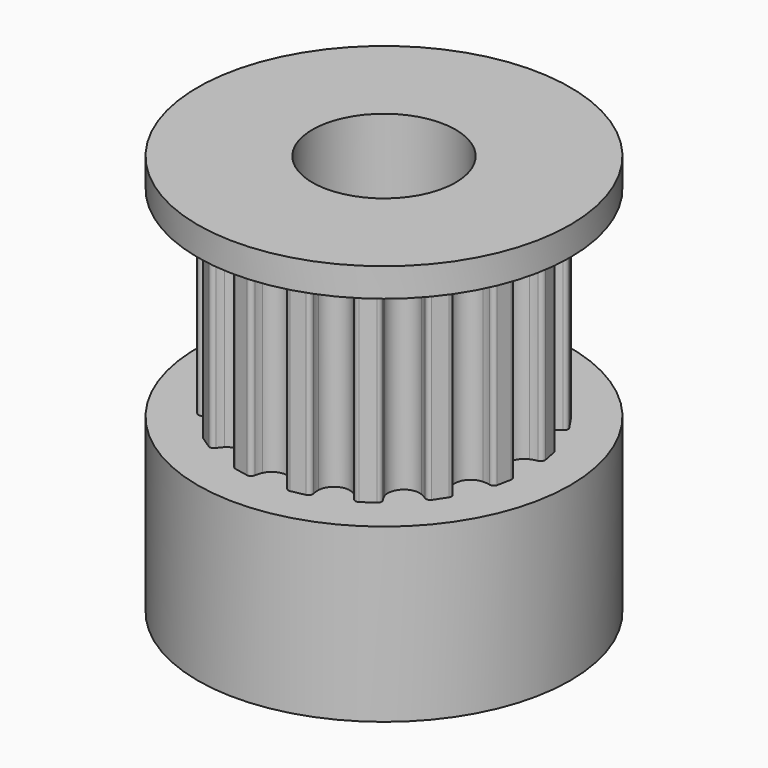
from build123d import *

# Parameters (mm, degrees)
F0_R     = 6.5
F0_R_2   = 2.5
F1_DEPTH = 6
F2_DEPTH = 7
F3_START = 7
F3_DEPTH = 1
F4_R     = 1.25
F5_DEPTH = 25


with BuildPart() as f1:
    # F0 (on Top) → F1 (new body)
    with BuildSketch(Plane.XY):
        Circle(F0_R)
        with BuildLine():
            ThreePointArc((4.9090131312, 0.5782954576), (4.7899259351, 0.5504631071), (4.6751267224, 0.5083022152))
            ThreePointArc((4.6751267224, 0.5083022152), (4.3429581789, 0), (4.6751267224, -0.5083022152))
            ThreePointArc((4.6751267224, -0.5083022152), (4.7899259351, -0.5504631071), (4.9090131312, -0.5782954576))
            ThreePointArc((4.9090131312, -0.5782954576), (5.0090368594, -0.6367571879), (5.0375745642, -0.7490430709))
            Line((5.0375745642, -0.7490430709), (4.9407584068, -1.2357707629))
            ThreePointArc((4.9407584068, -1.2357707629), (4.8714230583, -1.3285884851), (4.7566408474, -1.3443226576))
            ThreePointArc((4.7566408474, -1.3443226576), (4.6359676449, -1.3244636995), (4.5137727272, -1.3194835279))
            ThreePointArc((4.5137727272, -1.3194835279), (4.0123701721, -1.6619781425), (4.1247350544, -2.2587035539))
            ThreePointArc((4.1247350544, -2.2587035539), (4.2146614224, -2.3415868957), (4.3140326661, -2.4128733316))
            ThreePointArc((4.3140326661, -2.4128733316), (4.3840702057, -2.5051623513), (4.36746566, -2.6198218872))
            Line((4.36746566, -2.6198218872), (4.09175657, -3.0324497003))
            ThreePointArc((4.09175657, -3.0324497003), (3.9921792561, -3.0916686049), (3.8801131136, -3.0622798344))
            ThreePointArc((3.8801131136, -3.0622798344), (3.7762253059, -2.9977529142), (3.6652377516, -2.9463898651))
            ThreePointArc((3.6652377516, -2.9463898651), (3.0709351787, -3.0709351787), (2.9463898651, -3.6652377516))
            ThreePointArc((2.9463898651, -3.6652377516), (2.9977529142, -3.7762253059), (3.0622798344, -3.8801131136))
            ThreePointArc((3.0622798344, -3.8801131136), (3.0916686049, -3.9921792561), (3.0324497003, -4.09175657))
            Line((3.0324497003, -4.09175657), (2.6198218872, -4.36746566))
            ThreePointArc((2.6198218872, -4.36746566), (2.5051623513, -4.3840702057), (2.4128733316, -4.3140326661))
            ThreePointArc((2.4128733316, -4.3140326661), (2.3415868957, -4.2146614224), (2.2587035539, -4.1247350544))
            ThreePointArc((2.2587035539, -4.1247350544), (1.6619781425, -4.0123701721), (1.3194835279, -4.5137727272))
            ThreePointArc((1.3194835279, -4.5137727272), (1.3244636995, -4.6359676449), (1.3443226576, -4.7566408474))
            ThreePointArc((1.3443226576, -4.7566408474), (1.3285884851, -4.8714230583), (1.2357707629, -4.9407584068))
            Line((1.2357707629, -4.9407584068), (0.7490430709, -5.0375745642))
            ThreePointArc((0.7490430709, -5.0375745642), (0.6367571879, -5.0090368594), (0.5782954576, -4.9090131312))
            ThreePointArc((0.5782954576, -4.9090131312), (0.5504631071, -4.7899259351), (0.5083022152, -4.6751267224))
            ThreePointArc((0.5083022152, -4.6751267224), (0, -4.3429581789), (-0.5083022152, -4.6751267224))
            ThreePointArc((-0.5083022152, -4.6751267224), (-0.5504631071, -4.7899259351), (-0.5782954576, -4.9090131312))
            ThreePointArc((-0.5782954576, -4.9090131312), (-0.6367571879, -5.0090368594), (-0.7490430709, -5.0375745642))
            Line((-0.7490430709, -5.0375745642), (-1.2357707629, -4.9407584068))
            ThreePointArc((-1.2357707629, -4.9407584068), (-1.3285884851, -4.8714230583), (-1.3443226576, -4.7566408474))
            ThreePointArc((-1.3443226576, -4.7566408474), (-1.3244636995, -4.6359676449), (-1.3194835279, -4.5137727272))
            ThreePointArc((-1.3194835279, -4.5137727272), (-1.6619781425, -4.0123701721), (-2.2587035539, -4.1247350544))
            ThreePointArc((-2.2587035539, -4.1247350544), (-2.3415868957, -4.2146614224), (-2.4128733316, -4.3140326661))
            ThreePointArc((-2.4128733316, -4.3140326661), (-2.5051623513, -4.3840702057), (-2.6198218872, -4.36746566))
            Line((-2.6198218872, -4.36746566), (-3.0324497003, -4.09175657))
            ThreePointArc((-3.0324497003, -4.09175657), (-3.0916686049, -3.9921792561), (-3.0622798344, -3.8801131136))
            ThreePointArc((-3.0622798344, -3.8801131136), (-2.9977529142, -3.7762253059), (-2.9463898651, -3.6652377516))
            ThreePointArc((-2.9463898651, -3.6652377516), (-3.0709351787, -3.0709351787), (-3.6652377516, -2.9463898651))
            ThreePointArc((-3.6652377516, -2.9463898651), (-3.7762253059, -2.9977529142), (-3.8801131136, -3.0622798344))
            ThreePointArc((-3.8801131136, -3.0622798344), (-3.9921792561, -3.0916686049), (-4.09175657, -3.0324497003))
            Line((-4.09175657, -3.0324497003), (-4.36746566, -2.6198218872))
            ThreePointArc((-4.36746566, -2.6198218872), (-4.3840702057, -2.5051623513), (-4.3140326661, -2.4128733316))
            ThreePointArc((-4.3140326661, -2.4128733316), (-4.2146614224, -2.3415868957), (-4.1247350544, -2.2587035539))
            ThreePointArc((-4.1247350544, -2.2587035539), (-4.0123701721, -1.6619781425), (-4.5137727272, -1.3194835279))
            ThreePointArc((-4.5137727272, -1.3194835279), (-4.6359676449, -1.3244636995), (-4.7566408474, -1.3443226576))
            ThreePointArc((-4.7566408474, -1.3443226576), (-4.8714230583, -1.3285884851), (-4.9407584068, -1.2357707629))
            Line((-4.9407584068, -1.2357707629), (-5.0375745642, -0.7490430709))
            ThreePointArc((-5.0375745642, -0.7490430709), (-5.0090368594, -0.6367571879), (-4.9090131312, -0.5782954576))
            ThreePointArc((-4.9090131312, -0.5782954576), (-4.7899259351, -0.5504631071), (-4.6751267224, -0.5083022152))
            ThreePointArc((-4.6751267224, -0.5083022152), (-4.3429581789, 0), (-4.6751267224, 0.5083022152))
            ThreePointArc((-4.6751267224, 0.5083022152), (-4.7899259351, 0.5504631071), (-4.9090131312, 0.5782954576))
            ThreePointArc((-4.9090131312, 0.5782954576), (-5.0090368594, 0.6367571879), (-5.0375745642, 0.7490430709))
            Line((-5.0375745642, 0.7490430709), (-4.9407584068, 1.2357707629))
            ThreePointArc((-4.9407584068, 1.2357707629), (-4.8714230583, 1.3285884851), (-4.7566408474, 1.3443226576))
            ThreePointArc((-4.7566408474, 1.3443226576), (-4.6359676449, 1.3244636995), (-4.5137727272, 1.3194835279))
            ThreePointArc((-4.5137727272, 1.3194835279), (-4.0123701721, 1.6619781425), (-4.1247350544, 2.2587035539))
            ThreePointArc((-4.1247350544, 2.2587035539), (-4.2146614224, 2.3415868957), (-4.3140326661, 2.4128733316))
            ThreePointArc((-4.3140326661, 2.4128733316), (-4.3840702057, 2.5051623513), (-4.36746566, 2.6198218872))
            Line((-4.36746566, 2.6198218872), (-4.09175657, 3.0324497003))
            ThreePointArc((-4.09175657, 3.0324497003), (-3.9921792561, 3.0916686049), (-3.8801131136, 3.0622798344))
            ThreePointArc((-3.8801131136, 3.0622798344), (-3.7762253059, 2.9977529142), (-3.6652377516, 2.9463898651))
            ThreePointArc((-3.6652377516, 2.9463898651), (-3.0709351787, 3.0709351787), (-2.9463898651, 3.6652377516))
            ThreePointArc((-2.9463898651, 3.6652377516), (-2.9977529142, 3.7762253059), (-3.0622798344, 3.8801131136))
            ThreePointArc((-3.0622798344, 3.8801131136), (-3.0916686049, 3.9921792561), (-3.0324497003, 4.09175657))
            Line((-3.0324497003, 4.09175657), (-2.6198218872, 4.36746566))
            ThreePointArc((-2.6198218872, 4.36746566), (-2.5051623513, 4.3840702057), (-2.4128733316, 4.3140326661))
            ThreePointArc((-2.4128733316, 4.3140326661), (-2.3415868957, 4.2146614224), (-2.2587035539, 4.1247350544))
            ThreePointArc((-2.2587035539, 4.1247350544), (-1.6619781425, 4.0123701721), (-1.3194835279, 4.5137727272))
            ThreePointArc((-1.3194835279, 4.5137727272), (-1.3244636995, 4.6359676449), (-1.3443226576, 4.7566408474))
            ThreePointArc((-1.3443226576, 4.7566408474), (-1.3285884851, 4.8714230583), (-1.2357707629, 4.9407584068))
            Line((-1.2357707629, 4.9407584068), (-0.7490430709, 5.0375745642))
            ThreePointArc((-0.7490430709, 5.0375745642), (-0.6367571879, 5.0090368594), (-0.5782954576, 4.9090131312))
            ThreePointArc((-0.5782954576, 4.9090131312), (-0.5504631071, 4.7899259351), (-0.5083022152, 4.6751267224))
            ThreePointArc((-0.5083022152, 4.6751267224), (0, 4.3429581789), (0.5083022152, 4.6751267224))
            ThreePointArc((0.5083022152, 4.6751267224), (0.5504631071, 4.7899259351), (0.5782954576, 4.9090131312))
            ThreePointArc((0.5782954576, 4.9090131312), (0.6367571879, 5.0090368594), (0.7490430709, 5.0375745642))
            Line((0.7490430709, 5.0375745642), (1.2357707629, 4.9407584068))
            ThreePointArc((1.2357707629, 4.9407584068), (1.3285884851, 4.8714230583), (1.3443226576, 4.7566408474))
            ThreePointArc((1.3443226576, 4.7566408474), (1.3244636995, 4.6359676449), (1.3194835279, 4.5137727272))
            ThreePointArc((1.3194835279, 4.5137727272), (1.6619781425, 4.0123701721), (2.2587035539, 4.1247350544))
            ThreePointArc((2.2587035539, 4.1247350544), (2.3415868957, 4.2146614224), (2.4128733316, 4.3140326661))
            ThreePointArc((2.4128733316, 4.3140326661), (2.5051623513, 4.3840702057), (2.6198218872, 4.36746566))
            Line((2.6198218872, 4.36746566), (3.0324497003, 4.09175657))
            ThreePointArc((3.0324497003, 4.09175657), (3.0916686049, 3.9921792561), (3.0622798344, 3.8801131136))
            ThreePointArc((3.0622798344, 3.8801131136), (2.9977529142, 3.7762253059), (2.9463898651, 3.6652377516))
            ThreePointArc((2.9463898651, 3.6652377516), (3.0709351787, 3.0709351787), (3.6652377516, 2.9463898651))
            ThreePointArc((3.6652377516, 2.9463898651), (3.7762253059, 2.9977529142), (3.8801131136, 3.0622798344))
            ThreePointArc((3.8801131136, 3.0622798344), (3.9921792561, 3.0916686049), (4.09175657, 3.0324497003))
            Line((4.09175657, 3.0324497003), (4.36746566, 2.6198218872))
            ThreePointArc((4.36746566, 2.6198218872), (4.3840702057, 2.5051623513), (4.3140326661, 2.4128733316))
            ThreePointArc((4.3140326661, 2.4128733316), (4.2146614224, 2.3415868957), (4.1247350544, 2.2587035539))
            ThreePointArc((4.1247350544, 2.2587035539), (4.0123701721, 1.6619781425), (4.5137727272, 1.3194835279))
            ThreePointArc((4.5137727272, 1.3194835279), (4.6359676449, 1.3244636995), (4.7566408474, 1.3443226576))
            ThreePointArc((4.7566408474, 1.3443226576), (4.8714230583, 1.3285884851), (4.9407584068, 1.2357707629))
            Line((4.9407584068, 1.2357707629), (5.0375745642, 0.7490430709))
            ThreePointArc((5.0375745642, 0.7490430709), (5.0090368594, 0.6367571879), (4.9090131312, 0.5782954576))
        make_face(mode=Mode.SUBTRACT)
        with BuildLine():
            ThreePointArc((4.6751267224, -0.5083022152), (4.3429581789, 0), (4.6751267224, 0.5083022152))
            ThreePointArc((4.6751267224, 0.5083022152), (4.7899259351, 0.5504631071), (4.9090131312, 0.5782954576))
            ThreePointArc((4.9090131312, 0.5782954576), (5.0090368594, 0.6367571879), (5.0375745642, 0.7490430709))
            Line((5.0375745642, 0.7490430709), (4.9407584068, 1.2357707629))
            ThreePointArc((4.9407584068, 1.2357707629), (4.8714230583, 1.3285884851), (4.7566408474, 1.3443226576))
            ThreePointArc((4.7566408474, 1.3443226576), (4.6359676449, 1.3244636995), (4.5137727272, 1.3194835279))
            ThreePointArc((4.5137727272, 1.3194835279), (4.0123701721, 1.6619781425), (4.1247350544, 2.2587035539))
            ThreePointArc((4.1247350544, 2.2587035539), (4.2146614224, 2.3415868957), (4.3140326661, 2.4128733316))
            ThreePointArc((4.3140326661, 2.4128733316), (4.3840702057, 2.5051623513), (4.36746566, 2.6198218872))
            Line((4.36746566, 2.6198218872), (4.09175657, 3.0324497003))
            ThreePointArc((4.09175657, 3.0324497003), (3.9921792561, 3.0916686049), (3.8801131136, 3.0622798344))
            ThreePointArc((3.8801131136, 3.0622798344), (3.7762253059, 2.9977529142), (3.6652377516, 2.9463898651))
            ThreePointArc((3.6652377516, 2.9463898651), (3.0709351787, 3.0709351787), (2.9463898651, 3.6652377516))
            ThreePointArc((2.9463898651, 3.6652377516), (2.9977529142, 3.7762253059), (3.0622798344, 3.8801131136))
            ThreePointArc((3.0622798344, 3.8801131136), (3.0916686049, 3.9921792561), (3.0324497003, 4.09175657))
            Line((3.0324497003, 4.09175657), (2.6198218872, 4.36746566))
            ThreePointArc((2.6198218872, 4.36746566), (2.5051623513, 4.3840702057), (2.4128733316, 4.3140326661))
            ThreePointArc((2.4128733316, 4.3140326661), (2.3415868957, 4.2146614224), (2.2587035539, 4.1247350544))
            ThreePointArc((2.2587035539, 4.1247350544), (1.6619781425, 4.0123701721), (1.3194835279, 4.5137727272))
            ThreePointArc((1.3194835279, 4.5137727272), (1.3244636995, 4.6359676449), (1.3443226576, 4.7566408474))
            ThreePointArc((1.3443226576, 4.7566408474), (1.3285884851, 4.8714230583), (1.2357707629, 4.9407584068))
            Line((1.2357707629, 4.9407584068), (0.7490430709, 5.0375745642))
            ThreePointArc((0.7490430709, 5.0375745642), (0.6367571879, 5.0090368594), (0.5782954576, 4.9090131312))
            ThreePointArc((0.5782954576, 4.9090131312), (0.5504631071, 4.7899259351), (0.5083022152, 4.6751267224))
            ThreePointArc((0.5083022152, 4.6751267224), (0, 4.3429581789), (-0.5083022152, 4.6751267224))
            ThreePointArc((-0.5083022152, 4.6751267224), (-0.5504631071, 4.7899259351), (-0.5782954576, 4.9090131312))
            ThreePointArc((-0.5782954576, 4.9090131312), (-0.6367571879, 5.0090368594), (-0.7490430709, 5.0375745642))
            Line((-0.7490430709, 5.0375745642), (-1.2357707629, 4.9407584068))
            ThreePointArc((-1.2357707629, 4.9407584068), (-1.3285884851, 4.8714230583), (-1.3443226576, 4.7566408474))
            ThreePointArc((-1.3443226576, 4.7566408474), (-1.3244636995, 4.6359676449), (-1.3194835279, 4.5137727272))
            ThreePointArc((-1.3194835279, 4.5137727272), (-1.6619781425, 4.0123701721), (-2.2587035539, 4.1247350544))
            ThreePointArc((-2.2587035539, 4.1247350544), (-2.3415868957, 4.2146614224), (-2.4128733316, 4.3140326661))
            ThreePointArc((-2.4128733316, 4.3140326661), (-2.5051623513, 4.3840702057), (-2.6198218872, 4.36746566))
            Line((-2.6198218872, 4.36746566), (-3.0324497003, 4.09175657))
            ThreePointArc((-3.0324497003, 4.09175657), (-3.0916686049, 3.9921792561), (-3.0622798344, 3.8801131136))
            ThreePointArc((-3.0622798344, 3.8801131136), (-2.9977529142, 3.7762253059), (-2.9463898651, 3.6652377516))
            ThreePointArc((-2.9463898651, 3.6652377516), (-3.0709351787, 3.0709351787), (-3.6652377516, 2.9463898651))
            ThreePointArc((-3.6652377516, 2.9463898651), (-3.7762253059, 2.9977529142), (-3.8801131136, 3.0622798344))
            ThreePointArc((-3.8801131136, 3.0622798344), (-3.9921792561, 3.0916686049), (-4.09175657, 3.0324497003))
            Line((-4.09175657, 3.0324497003), (-4.36746566, 2.6198218872))
            ThreePointArc((-4.36746566, 2.6198218872), (-4.3840702057, 2.5051623513), (-4.3140326661, 2.4128733316))
            ThreePointArc((-4.3140326661, 2.4128733316), (-4.2146614224, 2.3415868957), (-4.1247350544, 2.2587035539))
            ThreePointArc((-4.1247350544, 2.2587035539), (-4.0123701721, 1.6619781425), (-4.5137727272, 1.3194835279))
            ThreePointArc((-4.5137727272, 1.3194835279), (-4.6359676449, 1.3244636995), (-4.7566408474, 1.3443226576))
            ThreePointArc((-4.7566408474, 1.3443226576), (-4.8714230583, 1.3285884851), (-4.9407584068, 1.2357707629))
            Line((-4.9407584068, 1.2357707629), (-5.0375745642, 0.7490430709))
            ThreePointArc((-5.0375745642, 0.7490430709), (-5.0090368594, 0.6367571879), (-4.9090131312, 0.5782954576))
            ThreePointArc((-4.9090131312, 0.5782954576), (-4.7899259351, 0.5504631071), (-4.6751267224, 0.5083022152))
            ThreePointArc((-4.6751267224, 0.5083022152), (-4.3429581789, 0), (-4.6751267224, -0.5083022152))
            ThreePointArc((-4.6751267224, -0.5083022152), (-4.7899259351, -0.5504631071), (-4.9090131312, -0.5782954576))
            ThreePointArc((-4.9090131312, -0.5782954576), (-5.0090368594, -0.6367571879), (-5.0375745642, -0.7490430709))
            Line((-5.0375745642, -0.7490430709), (-4.9407584068, -1.2357707629))
            ThreePointArc((-4.9407584068, -1.2357707629), (-4.8714230583, -1.3285884851), (-4.7566408474, -1.3443226576))
            ThreePointArc((-4.7566408474, -1.3443226576), (-4.6359676449, -1.3244636995), (-4.5137727272, -1.3194835279))
            ThreePointArc((-4.5137727272, -1.3194835279), (-4.0123701721, -1.6619781425), (-4.1247350544, -2.2587035539))
            ThreePointArc((-4.1247350544, -2.2587035539), (-4.2146614224, -2.3415868957), (-4.3140326661, -2.4128733316))
            ThreePointArc((-4.3140326661, -2.4128733316), (-4.3840702057, -2.5051623513), (-4.36746566, -2.6198218872))
            Line((-4.36746566, -2.6198218872), (-4.09175657, -3.0324497003))
            ThreePointArc((-4.09175657, -3.0324497003), (-3.9921792561, -3.0916686049), (-3.8801131136, -3.0622798344))
            ThreePointArc((-3.8801131136, -3.0622798344), (-3.7762253059, -2.9977529142), (-3.6652377516, -2.9463898651))
            ThreePointArc((-3.6652377516, -2.9463898651), (-3.0709351787, -3.0709351787), (-2.9463898651, -3.6652377516))
            ThreePointArc((-2.9463898651, -3.6652377516), (-2.9977529142, -3.7762253059), (-3.0622798344, -3.8801131136))
            ThreePointArc((-3.0622798344, -3.8801131136), (-3.0916686049, -3.9921792561), (-3.0324497003, -4.09175657))
            Line((-3.0324497003, -4.09175657), (-2.6198218872, -4.36746566))
            ThreePointArc((-2.6198218872, -4.36746566), (-2.5051623513, -4.3840702057), (-2.4128733316, -4.3140326661))
            ThreePointArc((-2.4128733316, -4.3140326661), (-2.3415868957, -4.2146614224), (-2.2587035539, -4.1247350544))
            ThreePointArc((-2.2587035539, -4.1247350544), (-1.6619781425, -4.0123701721), (-1.3194835279, -4.5137727272))
            ThreePointArc((-1.3194835279, -4.5137727272), (-1.3244636995, -4.6359676449), (-1.3443226576, -4.7566408474))
            ThreePointArc((-1.3443226576, -4.7566408474), (-1.3285884851, -4.8714230583), (-1.2357707629, -4.9407584068))
            Line((-1.2357707629, -4.9407584068), (-0.7490430709, -5.0375745642))
            ThreePointArc((-0.7490430709, -5.0375745642), (-0.6367571879, -5.0090368594), (-0.5782954576, -4.9090131312))
            ThreePointArc((-0.5782954576, -4.9090131312), (-0.5504631071, -4.7899259351), (-0.5083022152, -4.6751267224))
            ThreePointArc((-0.5083022152, -4.6751267224), (0, -4.3429581789), (0.5083022152, -4.6751267224))
            ThreePointArc((0.5083022152, -4.6751267224), (0.5504631071, -4.7899259351), (0.5782954576, -4.9090131312))
            ThreePointArc((0.5782954576, -4.9090131312), (0.6367571879, -5.0090368594), (0.7490430709, -5.0375745642))
            Line((0.7490430709, -5.0375745642), (1.2357707629, -4.9407584068))
            ThreePointArc((1.2357707629, -4.9407584068), (1.3285884851, -4.8714230583), (1.3443226576, -4.7566408474))
            ThreePointArc((1.3443226576, -4.7566408474), (1.3244636995, -4.6359676449), (1.3194835279, -4.5137727272))
            ThreePointArc((1.3194835279, -4.5137727272), (1.6619781425, -4.0123701721), (2.2587035539, -4.1247350544))
            ThreePointArc((2.2587035539, -4.1247350544), (2.3415868957, -4.2146614224), (2.4128733316, -4.3140326661))
            ThreePointArc((2.4128733316, -4.3140326661), (2.5051623513, -4.3840702057), (2.6198218872, -4.36746566))
            Line((2.6198218872, -4.36746566), (3.0324497003, -4.09175657))
            ThreePointArc((3.0324497003, -4.09175657), (3.0916686049, -3.9921792561), (3.0622798344, -3.8801131136))
            ThreePointArc((3.0622798344, -3.8801131136), (2.9977529142, -3.7762253059), (2.9463898651, -3.6652377516))
            ThreePointArc((2.9463898651, -3.6652377516), (3.0709351787, -3.0709351787), (3.6652377516, -2.9463898651))
            ThreePointArc((3.6652377516, -2.9463898651), (3.7762253059, -2.9977529142), (3.8801131136, -3.0622798344))
            ThreePointArc((3.8801131136, -3.0622798344), (3.9921792561, -3.0916686049), (4.09175657, -3.0324497003))
            Line((4.09175657, -3.0324497003), (4.36746566, -2.6198218872))
            ThreePointArc((4.36746566, -2.6198218872), (4.3840702057, -2.5051623513), (4.3140326661, -2.4128733316))
            ThreePointArc((4.3140326661, -2.4128733316), (4.2146614224, -2.3415868957), (4.1247350544, -2.2587035539))
            ThreePointArc((4.1247350544, -2.2587035539), (4.0123701721, -1.6619781425), (4.5137727272, -1.3194835279))
            ThreePointArc((4.5137727272, -1.3194835279), (4.6359676449, -1.3244636995), (4.7566408474, -1.3443226576))
            ThreePointArc((4.7566408474, -1.3443226576), (4.8714230583, -1.3285884851), (4.9407584068, -1.2357707629))
            Line((4.9407584068, -1.2357707629), (5.0375745642, -0.7490430709))
            ThreePointArc((5.0375745642, -0.7490430709), (5.0090368594, -0.6367571879), (4.9090131312, -0.5782954576))
            ThreePointArc((4.9090131312, -0.5782954576), (4.7899259351, -0.5504631071), (4.6751267224, -0.5083022152))
        make_face()
        Circle(F0_R_2, mode=Mode.SUBTRACT)
    extrude(amount=-F1_DEPTH)

    # F0 (on Top) → F2 (join)
    with BuildSketch(Plane.XY):
        with BuildLine():
            ThreePointArc((4.6751267224, -0.5083022152), (4.3429581789, 0), (4.6751267224, 0.5083022152))
            ThreePointArc((4.6751267224, 0.5083022152), (4.7899259351, 0.5504631071), (4.9090131312, 0.5782954576))
            ThreePointArc((4.9090131312, 0.5782954576), (5.0090368594, 0.6367571879), (5.0375745642, 0.7490430709))
            Line((5.0375745642, 0.7490430709), (4.9407584068, 1.2357707629))
            ThreePointArc((4.9407584068, 1.2357707629), (4.8714230583, 1.3285884851), (4.7566408474, 1.3443226576))
            ThreePointArc((4.7566408474, 1.3443226576), (4.6359676449, 1.3244636995), (4.5137727272, 1.3194835279))
            ThreePointArc((4.5137727272, 1.3194835279), (4.0123701721, 1.6619781425), (4.1247350544, 2.2587035539))
            ThreePointArc((4.1247350544, 2.2587035539), (4.2146614224, 2.3415868957), (4.3140326661, 2.4128733316))
            ThreePointArc((4.3140326661, 2.4128733316), (4.3840702057, 2.5051623513), (4.36746566, 2.6198218872))
            Line((4.36746566, 2.6198218872), (4.09175657, 3.0324497003))
            ThreePointArc((4.09175657, 3.0324497003), (3.9921792561, 3.0916686049), (3.8801131136, 3.0622798344))
            ThreePointArc((3.8801131136, 3.0622798344), (3.7762253059, 2.9977529142), (3.6652377516, 2.9463898651))
            ThreePointArc((3.6652377516, 2.9463898651), (3.0709351787, 3.0709351787), (2.9463898651, 3.6652377516))
            ThreePointArc((2.9463898651, 3.6652377516), (2.9977529142, 3.7762253059), (3.0622798344, 3.8801131136))
            ThreePointArc((3.0622798344, 3.8801131136), (3.0916686049, 3.9921792561), (3.0324497003, 4.09175657))
            Line((3.0324497003, 4.09175657), (2.6198218872, 4.36746566))
            ThreePointArc((2.6198218872, 4.36746566), (2.5051623513, 4.3840702057), (2.4128733316, 4.3140326661))
            ThreePointArc((2.4128733316, 4.3140326661), (2.3415868957, 4.2146614224), (2.2587035539, 4.1247350544))
            ThreePointArc((2.2587035539, 4.1247350544), (1.6619781425, 4.0123701721), (1.3194835279, 4.5137727272))
            ThreePointArc((1.3194835279, 4.5137727272), (1.3244636995, 4.6359676449), (1.3443226576, 4.7566408474))
            ThreePointArc((1.3443226576, 4.7566408474), (1.3285884851, 4.8714230583), (1.2357707629, 4.9407584068))
            Line((1.2357707629, 4.9407584068), (0.7490430709, 5.0375745642))
            ThreePointArc((0.7490430709, 5.0375745642), (0.6367571879, 5.0090368594), (0.5782954576, 4.9090131312))
            ThreePointArc((0.5782954576, 4.9090131312), (0.5504631071, 4.7899259351), (0.5083022152, 4.6751267224))
            ThreePointArc((0.5083022152, 4.6751267224), (0, 4.3429581789), (-0.5083022152, 4.6751267224))
            ThreePointArc((-0.5083022152, 4.6751267224), (-0.5504631071, 4.7899259351), (-0.5782954576, 4.9090131312))
            ThreePointArc((-0.5782954576, 4.9090131312), (-0.6367571879, 5.0090368594), (-0.7490430709, 5.0375745642))
            Line((-0.7490430709, 5.0375745642), (-1.2357707629, 4.9407584068))
            ThreePointArc((-1.2357707629, 4.9407584068), (-1.3285884851, 4.8714230583), (-1.3443226576, 4.7566408474))
            ThreePointArc((-1.3443226576, 4.7566408474), (-1.3244636995, 4.6359676449), (-1.3194835279, 4.5137727272))
            ThreePointArc((-1.3194835279, 4.5137727272), (-1.6619781425, 4.0123701721), (-2.2587035539, 4.1247350544))
            ThreePointArc((-2.2587035539, 4.1247350544), (-2.3415868957, 4.2146614224), (-2.4128733316, 4.3140326661))
            ThreePointArc((-2.4128733316, 4.3140326661), (-2.5051623513, 4.3840702057), (-2.6198218872, 4.36746566))
            Line((-2.6198218872, 4.36746566), (-3.0324497003, 4.09175657))
            ThreePointArc((-3.0324497003, 4.09175657), (-3.0916686049, 3.9921792561), (-3.0622798344, 3.8801131136))
            ThreePointArc((-3.0622798344, 3.8801131136), (-2.9977529142, 3.7762253059), (-2.9463898651, 3.6652377516))
            ThreePointArc((-2.9463898651, 3.6652377516), (-3.0709351787, 3.0709351787), (-3.6652377516, 2.9463898651))
            ThreePointArc((-3.6652377516, 2.9463898651), (-3.7762253059, 2.9977529142), (-3.8801131136, 3.0622798344))
            ThreePointArc((-3.8801131136, 3.0622798344), (-3.9921792561, 3.0916686049), (-4.09175657, 3.0324497003))
            Line((-4.09175657, 3.0324497003), (-4.36746566, 2.6198218872))
            ThreePointArc((-4.36746566, 2.6198218872), (-4.3840702057, 2.5051623513), (-4.3140326661, 2.4128733316))
            ThreePointArc((-4.3140326661, 2.4128733316), (-4.2146614224, 2.3415868957), (-4.1247350544, 2.2587035539))
            ThreePointArc((-4.1247350544, 2.2587035539), (-4.0123701721, 1.6619781425), (-4.5137727272, 1.3194835279))
            ThreePointArc((-4.5137727272, 1.3194835279), (-4.6359676449, 1.3244636995), (-4.7566408474, 1.3443226576))
            ThreePointArc((-4.7566408474, 1.3443226576), (-4.8714230583, 1.3285884851), (-4.9407584068, 1.2357707629))
            Line((-4.9407584068, 1.2357707629), (-5.0375745642, 0.7490430709))
            ThreePointArc((-5.0375745642, 0.7490430709), (-5.0090368594, 0.6367571879), (-4.9090131312, 0.5782954576))
            ThreePointArc((-4.9090131312, 0.5782954576), (-4.7899259351, 0.5504631071), (-4.6751267224, 0.5083022152))
            ThreePointArc((-4.6751267224, 0.5083022152), (-4.3429581789, 0), (-4.6751267224, -0.5083022152))
            ThreePointArc((-4.6751267224, -0.5083022152), (-4.7899259351, -0.5504631071), (-4.9090131312, -0.5782954576))
            ThreePointArc((-4.9090131312, -0.5782954576), (-5.0090368594, -0.6367571879), (-5.0375745642, -0.7490430709))
            Line((-5.0375745642, -0.7490430709), (-4.9407584068, -1.2357707629))
            ThreePointArc((-4.9407584068, -1.2357707629), (-4.8714230583, -1.3285884851), (-4.7566408474, -1.3443226576))
            ThreePointArc((-4.7566408474, -1.3443226576), (-4.6359676449, -1.3244636995), (-4.5137727272, -1.3194835279))
            ThreePointArc((-4.5137727272, -1.3194835279), (-4.0123701721, -1.6619781425), (-4.1247350544, -2.2587035539))
            ThreePointArc((-4.1247350544, -2.2587035539), (-4.2146614224, -2.3415868957), (-4.3140326661, -2.4128733316))
            ThreePointArc((-4.3140326661, -2.4128733316), (-4.3840702057, -2.5051623513), (-4.36746566, -2.6198218872))
            Line((-4.36746566, -2.6198218872), (-4.09175657, -3.0324497003))
            ThreePointArc((-4.09175657, -3.0324497003), (-3.9921792561, -3.0916686049), (-3.8801131136, -3.0622798344))
            ThreePointArc((-3.8801131136, -3.0622798344), (-3.7762253059, -2.9977529142), (-3.6652377516, -2.9463898651))
            ThreePointArc((-3.6652377516, -2.9463898651), (-3.0709351787, -3.0709351787), (-2.9463898651, -3.6652377516))
            ThreePointArc((-2.9463898651, -3.6652377516), (-2.9977529142, -3.7762253059), (-3.0622798344, -3.8801131136))
            ThreePointArc((-3.0622798344, -3.8801131136), (-3.0916686049, -3.9921792561), (-3.0324497003, -4.09175657))
            Line((-3.0324497003, -4.09175657), (-2.6198218872, -4.36746566))
            ThreePointArc((-2.6198218872, -4.36746566), (-2.5051623513, -4.3840702057), (-2.4128733316, -4.3140326661))
            ThreePointArc((-2.4128733316, -4.3140326661), (-2.3415868957, -4.2146614224), (-2.2587035539, -4.1247350544))
            ThreePointArc((-2.2587035539, -4.1247350544), (-1.6619781425, -4.0123701721), (-1.3194835279, -4.5137727272))
            ThreePointArc((-1.3194835279, -4.5137727272), (-1.3244636995, -4.6359676449), (-1.3443226576, -4.7566408474))
            ThreePointArc((-1.3443226576, -4.7566408474), (-1.3285884851, -4.8714230583), (-1.2357707629, -4.9407584068))
            Line((-1.2357707629, -4.9407584068), (-0.7490430709, -5.0375745642))
            ThreePointArc((-0.7490430709, -5.0375745642), (-0.6367571879, -5.0090368594), (-0.5782954576, -4.9090131312))
            ThreePointArc((-0.5782954576, -4.9090131312), (-0.5504631071, -4.7899259351), (-0.5083022152, -4.6751267224))
            ThreePointArc((-0.5083022152, -4.6751267224), (0, -4.3429581789), (0.5083022152, -4.6751267224))
            ThreePointArc((0.5083022152, -4.6751267224), (0.5504631071, -4.7899259351), (0.5782954576, -4.9090131312))
            ThreePointArc((0.5782954576, -4.9090131312), (0.6367571879, -5.0090368594), (0.7490430709, -5.0375745642))
            Line((0.7490430709, -5.0375745642), (1.2357707629, -4.9407584068))
            ThreePointArc((1.2357707629, -4.9407584068), (1.3285884851, -4.8714230583), (1.3443226576, -4.7566408474))
            ThreePointArc((1.3443226576, -4.7566408474), (1.3244636995, -4.6359676449), (1.3194835279, -4.5137727272))
            ThreePointArc((1.3194835279, -4.5137727272), (1.6619781425, -4.0123701721), (2.2587035539, -4.1247350544))
            ThreePointArc((2.2587035539, -4.1247350544), (2.3415868957, -4.2146614224), (2.4128733316, -4.3140326661))
            ThreePointArc((2.4128733316, -4.3140326661), (2.5051623513, -4.3840702057), (2.6198218872, -4.36746566))
            Line((2.6198218872, -4.36746566), (3.0324497003, -4.09175657))
            ThreePointArc((3.0324497003, -4.09175657), (3.0916686049, -3.9921792561), (3.0622798344, -3.8801131136))
            ThreePointArc((3.0622798344, -3.8801131136), (2.9977529142, -3.7762253059), (2.9463898651, -3.6652377516))
            ThreePointArc((2.9463898651, -3.6652377516), (3.0709351787, -3.0709351787), (3.6652377516, -2.9463898651))
            ThreePointArc((3.6652377516, -2.9463898651), (3.7762253059, -2.9977529142), (3.8801131136, -3.0622798344))
            ThreePointArc((3.8801131136, -3.0622798344), (3.9921792561, -3.0916686049), (4.09175657, -3.0324497003))
            Line((4.09175657, -3.0324497003), (4.36746566, -2.6198218872))
            ThreePointArc((4.36746566, -2.6198218872), (4.3840702057, -2.5051623513), (4.3140326661, -2.4128733316))
            ThreePointArc((4.3140326661, -2.4128733316), (4.2146614224, -2.3415868957), (4.1247350544, -2.2587035539))
            ThreePointArc((4.1247350544, -2.2587035539), (4.0123701721, -1.6619781425), (4.5137727272, -1.3194835279))
            ThreePointArc((4.5137727272, -1.3194835279), (4.6359676449, -1.3244636995), (4.7566408474, -1.3443226576))
            ThreePointArc((4.7566408474, -1.3443226576), (4.8714230583, -1.3285884851), (4.9407584068, -1.2357707629))
            Line((4.9407584068, -1.2357707629), (5.0375745642, -0.7490430709))
            ThreePointArc((5.0375745642, -0.7490430709), (5.0090368594, -0.6367571879), (4.9090131312, -0.5782954576))
            ThreePointArc((4.9090131312, -0.5782954576), (4.7899259351, -0.5504631071), (4.6751267224, -0.5083022152))
        make_face()
        Circle(F0_R_2, mode=Mode.SUBTRACT)
    extrude(amount=F2_DEPTH)

    # F0 (on Top) → F3 (join)
    with BuildSketch(Plane.XY.offset(F3_START)):
        Circle(F0_R)
        with BuildLine():
            ThreePointArc((4.9090131312, 0.5782954576), (4.7899259351, 0.5504631071), (4.6751267224, 0.5083022152))
            ThreePointArc((4.6751267224, 0.5083022152), (4.3429581789, 0), (4.6751267224, -0.5083022152))
            ThreePointArc((4.6751267224, -0.5083022152), (4.7899259351, -0.5504631071), (4.9090131312, -0.5782954576))
            ThreePointArc((4.9090131312, -0.5782954576), (5.0090368594, -0.6367571879), (5.0375745642, -0.7490430709))
            Line((5.0375745642, -0.7490430709), (4.9407584068, -1.2357707629))
            ThreePointArc((4.9407584068, -1.2357707629), (4.8714230583, -1.3285884851), (4.7566408474, -1.3443226576))
            ThreePointArc((4.7566408474, -1.3443226576), (4.6359676449, -1.3244636995), (4.5137727272, -1.3194835279))
            ThreePointArc((4.5137727272, -1.3194835279), (4.0123701721, -1.6619781425), (4.1247350544, -2.2587035539))
            ThreePointArc((4.1247350544, -2.2587035539), (4.2146614224, -2.3415868957), (4.3140326661, -2.4128733316))
            ThreePointArc((4.3140326661, -2.4128733316), (4.3840702057, -2.5051623513), (4.36746566, -2.6198218872))
            Line((4.36746566, -2.6198218872), (4.09175657, -3.0324497003))
            ThreePointArc((4.09175657, -3.0324497003), (3.9921792561, -3.0916686049), (3.8801131136, -3.0622798344))
            ThreePointArc((3.8801131136, -3.0622798344), (3.7762253059, -2.9977529142), (3.6652377516, -2.9463898651))
            ThreePointArc((3.6652377516, -2.9463898651), (3.0709351787, -3.0709351787), (2.9463898651, -3.6652377516))
            ThreePointArc((2.9463898651, -3.6652377516), (2.9977529142, -3.7762253059), (3.0622798344, -3.8801131136))
            ThreePointArc((3.0622798344, -3.8801131136), (3.0916686049, -3.9921792561), (3.0324497003, -4.09175657))
            Line((3.0324497003, -4.09175657), (2.6198218872, -4.36746566))
            ThreePointArc((2.6198218872, -4.36746566), (2.5051623513, -4.3840702057), (2.4128733316, -4.3140326661))
            ThreePointArc((2.4128733316, -4.3140326661), (2.3415868957, -4.2146614224), (2.2587035539, -4.1247350544))
            ThreePointArc((2.2587035539, -4.1247350544), (1.6619781425, -4.0123701721), (1.3194835279, -4.5137727272))
            ThreePointArc((1.3194835279, -4.5137727272), (1.3244636995, -4.6359676449), (1.3443226576, -4.7566408474))
            ThreePointArc((1.3443226576, -4.7566408474), (1.3285884851, -4.8714230583), (1.2357707629, -4.9407584068))
            Line((1.2357707629, -4.9407584068), (0.7490430709, -5.0375745642))
            ThreePointArc((0.7490430709, -5.0375745642), (0.6367571879, -5.0090368594), (0.5782954576, -4.9090131312))
            ThreePointArc((0.5782954576, -4.9090131312), (0.5504631071, -4.7899259351), (0.5083022152, -4.6751267224))
            ThreePointArc((0.5083022152, -4.6751267224), (0, -4.3429581789), (-0.5083022152, -4.6751267224))
            ThreePointArc((-0.5083022152, -4.6751267224), (-0.5504631071, -4.7899259351), (-0.5782954576, -4.9090131312))
            ThreePointArc((-0.5782954576, -4.9090131312), (-0.6367571879, -5.0090368594), (-0.7490430709, -5.0375745642))
            Line((-0.7490430709, -5.0375745642), (-1.2357707629, -4.9407584068))
            ThreePointArc((-1.2357707629, -4.9407584068), (-1.3285884851, -4.8714230583), (-1.3443226576, -4.7566408474))
            ThreePointArc((-1.3443226576, -4.7566408474), (-1.3244636995, -4.6359676449), (-1.3194835279, -4.5137727272))
            ThreePointArc((-1.3194835279, -4.5137727272), (-1.6619781425, -4.0123701721), (-2.2587035539, -4.1247350544))
            ThreePointArc((-2.2587035539, -4.1247350544), (-2.3415868957, -4.2146614224), (-2.4128733316, -4.3140326661))
            ThreePointArc((-2.4128733316, -4.3140326661), (-2.5051623513, -4.3840702057), (-2.6198218872, -4.36746566))
            Line((-2.6198218872, -4.36746566), (-3.0324497003, -4.09175657))
            ThreePointArc((-3.0324497003, -4.09175657), (-3.0916686049, -3.9921792561), (-3.0622798344, -3.8801131136))
            ThreePointArc((-3.0622798344, -3.8801131136), (-2.9977529142, -3.7762253059), (-2.9463898651, -3.6652377516))
            ThreePointArc((-2.9463898651, -3.6652377516), (-3.0709351787, -3.0709351787), (-3.6652377516, -2.9463898651))
            ThreePointArc((-3.6652377516, -2.9463898651), (-3.7762253059, -2.9977529142), (-3.8801131136, -3.0622798344))
            ThreePointArc((-3.8801131136, -3.0622798344), (-3.9921792561, -3.0916686049), (-4.09175657, -3.0324497003))
            Line((-4.09175657, -3.0324497003), (-4.36746566, -2.6198218872))
            ThreePointArc((-4.36746566, -2.6198218872), (-4.3840702057, -2.5051623513), (-4.3140326661, -2.4128733316))
            ThreePointArc((-4.3140326661, -2.4128733316), (-4.2146614224, -2.3415868957), (-4.1247350544, -2.2587035539))
            ThreePointArc((-4.1247350544, -2.2587035539), (-4.0123701721, -1.6619781425), (-4.5137727272, -1.3194835279))
            ThreePointArc((-4.5137727272, -1.3194835279), (-4.6359676449, -1.3244636995), (-4.7566408474, -1.3443226576))
            ThreePointArc((-4.7566408474, -1.3443226576), (-4.8714230583, -1.3285884851), (-4.9407584068, -1.2357707629))
            Line((-4.9407584068, -1.2357707629), (-5.0375745642, -0.7490430709))
            ThreePointArc((-5.0375745642, -0.7490430709), (-5.0090368594, -0.6367571879), (-4.9090131312, -0.5782954576))
            ThreePointArc((-4.9090131312, -0.5782954576), (-4.7899259351, -0.5504631071), (-4.6751267224, -0.5083022152))
            ThreePointArc((-4.6751267224, -0.5083022152), (-4.3429581789, 0), (-4.6751267224, 0.5083022152))
            ThreePointArc((-4.6751267224, 0.5083022152), (-4.7899259351, 0.5504631071), (-4.9090131312, 0.5782954576))
            ThreePointArc((-4.9090131312, 0.5782954576), (-5.0090368594, 0.6367571879), (-5.0375745642, 0.7490430709))
            Line((-5.0375745642, 0.7490430709), (-4.9407584068, 1.2357707629))
            ThreePointArc((-4.9407584068, 1.2357707629), (-4.8714230583, 1.3285884851), (-4.7566408474, 1.3443226576))
            ThreePointArc((-4.7566408474, 1.3443226576), (-4.6359676449, 1.3244636995), (-4.5137727272, 1.3194835279))
            ThreePointArc((-4.5137727272, 1.3194835279), (-4.0123701721, 1.6619781425), (-4.1247350544, 2.2587035539))
            ThreePointArc((-4.1247350544, 2.2587035539), (-4.2146614224, 2.3415868957), (-4.3140326661, 2.4128733316))
            ThreePointArc((-4.3140326661, 2.4128733316), (-4.3840702057, 2.5051623513), (-4.36746566, 2.6198218872))
            Line((-4.36746566, 2.6198218872), (-4.09175657, 3.0324497003))
            ThreePointArc((-4.09175657, 3.0324497003), (-3.9921792561, 3.0916686049), (-3.8801131136, 3.0622798344))
            ThreePointArc((-3.8801131136, 3.0622798344), (-3.7762253059, 2.9977529142), (-3.6652377516, 2.9463898651))
            ThreePointArc((-3.6652377516, 2.9463898651), (-3.0709351787, 3.0709351787), (-2.9463898651, 3.6652377516))
            ThreePointArc((-2.9463898651, 3.6652377516), (-2.9977529142, 3.7762253059), (-3.0622798344, 3.8801131136))
            ThreePointArc((-3.0622798344, 3.8801131136), (-3.0916686049, 3.9921792561), (-3.0324497003, 4.09175657))
            Line((-3.0324497003, 4.09175657), (-2.6198218872, 4.36746566))
            ThreePointArc((-2.6198218872, 4.36746566), (-2.5051623513, 4.3840702057), (-2.4128733316, 4.3140326661))
            ThreePointArc((-2.4128733316, 4.3140326661), (-2.3415868957, 4.2146614224), (-2.2587035539, 4.1247350544))
            ThreePointArc((-2.2587035539, 4.1247350544), (-1.6619781425, 4.0123701721), (-1.3194835279, 4.5137727272))
            ThreePointArc((-1.3194835279, 4.5137727272), (-1.3244636995, 4.6359676449), (-1.3443226576, 4.7566408474))
            ThreePointArc((-1.3443226576, 4.7566408474), (-1.3285884851, 4.8714230583), (-1.2357707629, 4.9407584068))
            Line((-1.2357707629, 4.9407584068), (-0.7490430709, 5.0375745642))
            ThreePointArc((-0.7490430709, 5.0375745642), (-0.6367571879, 5.0090368594), (-0.5782954576, 4.9090131312))
            ThreePointArc((-0.5782954576, 4.9090131312), (-0.5504631071, 4.7899259351), (-0.5083022152, 4.6751267224))
            ThreePointArc((-0.5083022152, 4.6751267224), (0, 4.3429581789), (0.5083022152, 4.6751267224))
            ThreePointArc((0.5083022152, 4.6751267224), (0.5504631071, 4.7899259351), (0.5782954576, 4.9090131312))
            ThreePointArc((0.5782954576, 4.9090131312), (0.6367571879, 5.0090368594), (0.7490430709, 5.0375745642))
            Line((0.7490430709, 5.0375745642), (1.2357707629, 4.9407584068))
            ThreePointArc((1.2357707629, 4.9407584068), (1.3285884851, 4.8714230583), (1.3443226576, 4.7566408474))
            ThreePointArc((1.3443226576, 4.7566408474), (1.3244636995, 4.6359676449), (1.3194835279, 4.5137727272))
            ThreePointArc((1.3194835279, 4.5137727272), (1.6619781425, 4.0123701721), (2.2587035539, 4.1247350544))
            ThreePointArc((2.2587035539, 4.1247350544), (2.3415868957, 4.2146614224), (2.4128733316, 4.3140326661))
            ThreePointArc((2.4128733316, 4.3140326661), (2.5051623513, 4.3840702057), (2.6198218872, 4.36746566))
            Line((2.6198218872, 4.36746566), (3.0324497003, 4.09175657))
            ThreePointArc((3.0324497003, 4.09175657), (3.0916686049, 3.9921792561), (3.0622798344, 3.8801131136))
            ThreePointArc((3.0622798344, 3.8801131136), (2.9977529142, 3.7762253059), (2.9463898651, 3.6652377516))
            ThreePointArc((2.9463898651, 3.6652377516), (3.0709351787, 3.0709351787), (3.6652377516, 2.9463898651))
            ThreePointArc((3.6652377516, 2.9463898651), (3.7762253059, 2.9977529142), (3.8801131136, 3.0622798344))
            ThreePointArc((3.8801131136, 3.0622798344), (3.9921792561, 3.0916686049), (4.09175657, 3.0324497003))
            Line((4.09175657, 3.0324497003), (4.36746566, 2.6198218872))
            ThreePointArc((4.36746566, 2.6198218872), (4.3840702057, 2.5051623513), (4.3140326661, 2.4128733316))
            ThreePointArc((4.3140326661, 2.4128733316), (4.2146614224, 2.3415868957), (4.1247350544, 2.2587035539))
            ThreePointArc((4.1247350544, 2.2587035539), (4.0123701721, 1.6619781425), (4.5137727272, 1.3194835279))
            ThreePointArc((4.5137727272, 1.3194835279), (4.6359676449, 1.3244636995), (4.7566408474, 1.3443226576))
            ThreePointArc((4.7566408474, 1.3443226576), (4.8714230583, 1.3285884851), (4.9407584068, 1.2357707629))
            Line((4.9407584068, 1.2357707629), (5.0375745642, 0.7490430709))
            ThreePointArc((5.0375745642, 0.7490430709), (5.0090368594, 0.6367571879), (4.9090131312, 0.5782954576))
        make_face(mode=Mode.SUBTRACT)
        with BuildLine():
            ThreePointArc((4.6751267224, -0.5083022152), (4.3429581789, 0), (4.6751267224, 0.5083022152))
            ThreePointArc((4.6751267224, 0.5083022152), (4.7899259351, 0.5504631071), (4.9090131312, 0.5782954576))
            ThreePointArc((4.9090131312, 0.5782954576), (5.0090368594, 0.6367571879), (5.0375745642, 0.7490430709))
            Line((5.0375745642, 0.7490430709), (4.9407584068, 1.2357707629))
            ThreePointArc((4.9407584068, 1.2357707629), (4.8714230583, 1.3285884851), (4.7566408474, 1.3443226576))
            ThreePointArc((4.7566408474, 1.3443226576), (4.6359676449, 1.3244636995), (4.5137727272, 1.3194835279))
            ThreePointArc((4.5137727272, 1.3194835279), (4.0123701721, 1.6619781425), (4.1247350544, 2.2587035539))
            ThreePointArc((4.1247350544, 2.2587035539), (4.2146614224, 2.3415868957), (4.3140326661, 2.4128733316))
            ThreePointArc((4.3140326661, 2.4128733316), (4.3840702057, 2.5051623513), (4.36746566, 2.6198218872))
            Line((4.36746566, 2.6198218872), (4.09175657, 3.0324497003))
            ThreePointArc((4.09175657, 3.0324497003), (3.9921792561, 3.0916686049), (3.8801131136, 3.0622798344))
            ThreePointArc((3.8801131136, 3.0622798344), (3.7762253059, 2.9977529142), (3.6652377516, 2.9463898651))
            ThreePointArc((3.6652377516, 2.9463898651), (3.0709351787, 3.0709351787), (2.9463898651, 3.6652377516))
            ThreePointArc((2.9463898651, 3.6652377516), (2.9977529142, 3.7762253059), (3.0622798344, 3.8801131136))
            ThreePointArc((3.0622798344, 3.8801131136), (3.0916686049, 3.9921792561), (3.0324497003, 4.09175657))
            Line((3.0324497003, 4.09175657), (2.6198218872, 4.36746566))
            ThreePointArc((2.6198218872, 4.36746566), (2.5051623513, 4.3840702057), (2.4128733316, 4.3140326661))
            ThreePointArc((2.4128733316, 4.3140326661), (2.3415868957, 4.2146614224), (2.2587035539, 4.1247350544))
            ThreePointArc((2.2587035539, 4.1247350544), (1.6619781425, 4.0123701721), (1.3194835279, 4.5137727272))
            ThreePointArc((1.3194835279, 4.5137727272), (1.3244636995, 4.6359676449), (1.3443226576, 4.7566408474))
            ThreePointArc((1.3443226576, 4.7566408474), (1.3285884851, 4.8714230583), (1.2357707629, 4.9407584068))
            Line((1.2357707629, 4.9407584068), (0.7490430709, 5.0375745642))
            ThreePointArc((0.7490430709, 5.0375745642), (0.6367571879, 5.0090368594), (0.5782954576, 4.9090131312))
            ThreePointArc((0.5782954576, 4.9090131312), (0.5504631071, 4.7899259351), (0.5083022152, 4.6751267224))
            ThreePointArc((0.5083022152, 4.6751267224), (0, 4.3429581789), (-0.5083022152, 4.6751267224))
            ThreePointArc((-0.5083022152, 4.6751267224), (-0.5504631071, 4.7899259351), (-0.5782954576, 4.9090131312))
            ThreePointArc((-0.5782954576, 4.9090131312), (-0.6367571879, 5.0090368594), (-0.7490430709, 5.0375745642))
            Line((-0.7490430709, 5.0375745642), (-1.2357707629, 4.9407584068))
            ThreePointArc((-1.2357707629, 4.9407584068), (-1.3285884851, 4.8714230583), (-1.3443226576, 4.7566408474))
            ThreePointArc((-1.3443226576, 4.7566408474), (-1.3244636995, 4.6359676449), (-1.3194835279, 4.5137727272))
            ThreePointArc((-1.3194835279, 4.5137727272), (-1.6619781425, 4.0123701721), (-2.2587035539, 4.1247350544))
            ThreePointArc((-2.2587035539, 4.1247350544), (-2.3415868957, 4.2146614224), (-2.4128733316, 4.3140326661))
            ThreePointArc((-2.4128733316, 4.3140326661), (-2.5051623513, 4.3840702057), (-2.6198218872, 4.36746566))
            Line((-2.6198218872, 4.36746566), (-3.0324497003, 4.09175657))
            ThreePointArc((-3.0324497003, 4.09175657), (-3.0916686049, 3.9921792561), (-3.0622798344, 3.8801131136))
            ThreePointArc((-3.0622798344, 3.8801131136), (-2.9977529142, 3.7762253059), (-2.9463898651, 3.6652377516))
            ThreePointArc((-2.9463898651, 3.6652377516), (-3.0709351787, 3.0709351787), (-3.6652377516, 2.9463898651))
            ThreePointArc((-3.6652377516, 2.9463898651), (-3.7762253059, 2.9977529142), (-3.8801131136, 3.0622798344))
            ThreePointArc((-3.8801131136, 3.0622798344), (-3.9921792561, 3.0916686049), (-4.09175657, 3.0324497003))
            Line((-4.09175657, 3.0324497003), (-4.36746566, 2.6198218872))
            ThreePointArc((-4.36746566, 2.6198218872), (-4.3840702057, 2.5051623513), (-4.3140326661, 2.4128733316))
            ThreePointArc((-4.3140326661, 2.4128733316), (-4.2146614224, 2.3415868957), (-4.1247350544, 2.2587035539))
            ThreePointArc((-4.1247350544, 2.2587035539), (-4.0123701721, 1.6619781425), (-4.5137727272, 1.3194835279))
            ThreePointArc((-4.5137727272, 1.3194835279), (-4.6359676449, 1.3244636995), (-4.7566408474, 1.3443226576))
            ThreePointArc((-4.7566408474, 1.3443226576), (-4.8714230583, 1.3285884851), (-4.9407584068, 1.2357707629))
            Line((-4.9407584068, 1.2357707629), (-5.0375745642, 0.7490430709))
            ThreePointArc((-5.0375745642, 0.7490430709), (-5.0090368594, 0.6367571879), (-4.9090131312, 0.5782954576))
            ThreePointArc((-4.9090131312, 0.5782954576), (-4.7899259351, 0.5504631071), (-4.6751267224, 0.5083022152))
            ThreePointArc((-4.6751267224, 0.5083022152), (-4.3429581789, 0), (-4.6751267224, -0.5083022152))
            ThreePointArc((-4.6751267224, -0.5083022152), (-4.7899259351, -0.5504631071), (-4.9090131312, -0.5782954576))
            ThreePointArc((-4.9090131312, -0.5782954576), (-5.0090368594, -0.6367571879), (-5.0375745642, -0.7490430709))
            Line((-5.0375745642, -0.7490430709), (-4.9407584068, -1.2357707629))
            ThreePointArc((-4.9407584068, -1.2357707629), (-4.8714230583, -1.3285884851), (-4.7566408474, -1.3443226576))
            ThreePointArc((-4.7566408474, -1.3443226576), (-4.6359676449, -1.3244636995), (-4.5137727272, -1.3194835279))
            ThreePointArc((-4.5137727272, -1.3194835279), (-4.0123701721, -1.6619781425), (-4.1247350544, -2.2587035539))
            ThreePointArc((-4.1247350544, -2.2587035539), (-4.2146614224, -2.3415868957), (-4.3140326661, -2.4128733316))
            ThreePointArc((-4.3140326661, -2.4128733316), (-4.3840702057, -2.5051623513), (-4.36746566, -2.6198218872))
            Line((-4.36746566, -2.6198218872), (-4.09175657, -3.0324497003))
            ThreePointArc((-4.09175657, -3.0324497003), (-3.9921792561, -3.0916686049), (-3.8801131136, -3.0622798344))
            ThreePointArc((-3.8801131136, -3.0622798344), (-3.7762253059, -2.9977529142), (-3.6652377516, -2.9463898651))
            ThreePointArc((-3.6652377516, -2.9463898651), (-3.0709351787, -3.0709351787), (-2.9463898651, -3.6652377516))
            ThreePointArc((-2.9463898651, -3.6652377516), (-2.9977529142, -3.7762253059), (-3.0622798344, -3.8801131136))
            ThreePointArc((-3.0622798344, -3.8801131136), (-3.0916686049, -3.9921792561), (-3.0324497003, -4.09175657))
            Line((-3.0324497003, -4.09175657), (-2.6198218872, -4.36746566))
            ThreePointArc((-2.6198218872, -4.36746566), (-2.5051623513, -4.3840702057), (-2.4128733316, -4.3140326661))
            ThreePointArc((-2.4128733316, -4.3140326661), (-2.3415868957, -4.2146614224), (-2.2587035539, -4.1247350544))
            ThreePointArc((-2.2587035539, -4.1247350544), (-1.6619781425, -4.0123701721), (-1.3194835279, -4.5137727272))
            ThreePointArc((-1.3194835279, -4.5137727272), (-1.3244636995, -4.6359676449), (-1.3443226576, -4.7566408474))
            ThreePointArc((-1.3443226576, -4.7566408474), (-1.3285884851, -4.8714230583), (-1.2357707629, -4.9407584068))
            Line((-1.2357707629, -4.9407584068), (-0.7490430709, -5.0375745642))
            ThreePointArc((-0.7490430709, -5.0375745642), (-0.6367571879, -5.0090368594), (-0.5782954576, -4.9090131312))
            ThreePointArc((-0.5782954576, -4.9090131312), (-0.5504631071, -4.7899259351), (-0.5083022152, -4.6751267224))
            ThreePointArc((-0.5083022152, -4.6751267224), (0, -4.3429581789), (0.5083022152, -4.6751267224))
            ThreePointArc((0.5083022152, -4.6751267224), (0.5504631071, -4.7899259351), (0.5782954576, -4.9090131312))
            ThreePointArc((0.5782954576, -4.9090131312), (0.6367571879, -5.0090368594), (0.7490430709, -5.0375745642))
            Line((0.7490430709, -5.0375745642), (1.2357707629, -4.9407584068))
            ThreePointArc((1.2357707629, -4.9407584068), (1.3285884851, -4.8714230583), (1.3443226576, -4.7566408474))
            ThreePointArc((1.3443226576, -4.7566408474), (1.3244636995, -4.6359676449), (1.3194835279, -4.5137727272))
            ThreePointArc((1.3194835279, -4.5137727272), (1.6619781425, -4.0123701721), (2.2587035539, -4.1247350544))
            ThreePointArc((2.2587035539, -4.1247350544), (2.3415868957, -4.2146614224), (2.4128733316, -4.3140326661))
            ThreePointArc((2.4128733316, -4.3140326661), (2.5051623513, -4.3840702057), (2.6198218872, -4.36746566))
            Line((2.6198218872, -4.36746566), (3.0324497003, -4.09175657))
            ThreePointArc((3.0324497003, -4.09175657), (3.0916686049, -3.9921792561), (3.0622798344, -3.8801131136))
            ThreePointArc((3.0622798344, -3.8801131136), (2.9977529142, -3.7762253059), (2.9463898651, -3.6652377516))
            ThreePointArc((2.9463898651, -3.6652377516), (3.0709351787, -3.0709351787), (3.6652377516, -2.9463898651))
            ThreePointArc((3.6652377516, -2.9463898651), (3.7762253059, -2.9977529142), (3.8801131136, -3.0622798344))
            ThreePointArc((3.8801131136, -3.0622798344), (3.9921792561, -3.0916686049), (4.09175657, -3.0324497003))
            Line((4.09175657, -3.0324497003), (4.36746566, -2.6198218872))
            ThreePointArc((4.36746566, -2.6198218872), (4.3840702057, -2.5051623513), (4.3140326661, -2.4128733316))
            ThreePointArc((4.3140326661, -2.4128733316), (4.2146614224, -2.3415868957), (4.1247350544, -2.2587035539))
            ThreePointArc((4.1247350544, -2.2587035539), (4.0123701721, -1.6619781425), (4.5137727272, -1.3194835279))
            ThreePointArc((4.5137727272, -1.3194835279), (4.6359676449, -1.3244636995), (4.7566408474, -1.3443226576))
            ThreePointArc((4.7566408474, -1.3443226576), (4.8714230583, -1.3285884851), (4.9407584068, -1.2357707629))
            Line((4.9407584068, -1.2357707629), (5.0375745642, -0.7490430709))
            ThreePointArc((5.0375745642, -0.7490430709), (5.0090368594, -0.6367571879), (4.9090131312, -0.5782954576))
            ThreePointArc((4.9090131312, -0.5782954576), (4.7899259351, -0.5504631071), (4.6751267224, -0.5083022152))
        make_face()
        Circle(F0_R_2, mode=Mode.SUBTRACT)
    extrude(amount=F3_DEPTH)

    # F4 (on Front) → F5 (cut)
    with BuildSketch(Plane.XZ):
        with Locations((0, -3)):
            Circle(F4_R)
    extrude(amount=-F5_DEPTH, mode=Mode.SUBTRACT)


with BuildPart() as f1_1:
    # F6: moved
    add(f1.part.moved(Location((0, 0, 8))))


solid = f1_1.part
